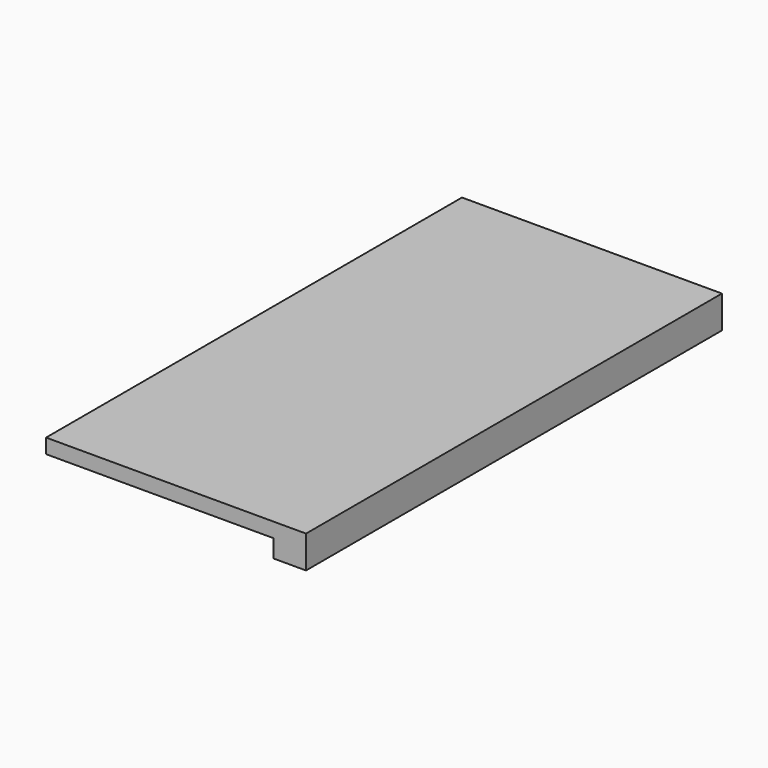
from build123d import *

# Parameters (mm, degrees)
F0_W     = 25.4
F0_H     = 25.4
F0_H_2   = 381
F0_W_2   = 152.4
F1_DEPTH = 25.4
F2_DEPTH = 11.43
F3_R     = 3.96875
F4_DEPTH = 12.7
F5_R     = 3.96875
F6_DEPTH = 12.7


with BuildPart() as f1:
    # F0 (on Top) → F1 (new body)
    with BuildSketch(Plane.XY):
        with Locations((88.9, 190.5)):
            Rectangle(F0_W, F0_H)
        with Locations((88.9, -12.7)):
            Rectangle(F0_W, F0_H_2)
        with Locations((0, 190.5)):
            Rectangle(F0_W_2, F0_H)
    extrude(amount=-F1_DEPTH)

    # F0 (on Top) → F2 (join)
    with BuildSketch(Plane.XY):
        Polygon((76.2, -203.2), (76.2, 177.8), (-76.2, 177.8), (-101.6, 177.8), (-101.6, -203.2), align=None)
        with Locations((-88.9, 190.5)):
            Rectangle(F0_W, F0_H)
    extrude(amount=-F2_DEPTH)

    # F3 (on face) → F4 (cut)
    with BuildSketch(Plane(origin=(-76.2, 0, 0), x_dir=(0, -1, 0), z_dir=(-1, 0, 0))):
        with Locations((-190.5, -18.415)):
            Circle(F3_R)
    extrude(amount=-F4_DEPTH, mode=Mode.SUBTRACT)

    # F5 (on face) → F6 (cut)
    with BuildSketch(Plane(origin=(76.2, 0, 0), x_dir=(0, -1, 0), z_dir=(-1, 0, 0))):
        with Locations((190.5, -18.415)):
            Circle(F5_R)
    extrude(amount=-F6_DEPTH, mode=Mode.SUBTRACT)


solid = f1.part
